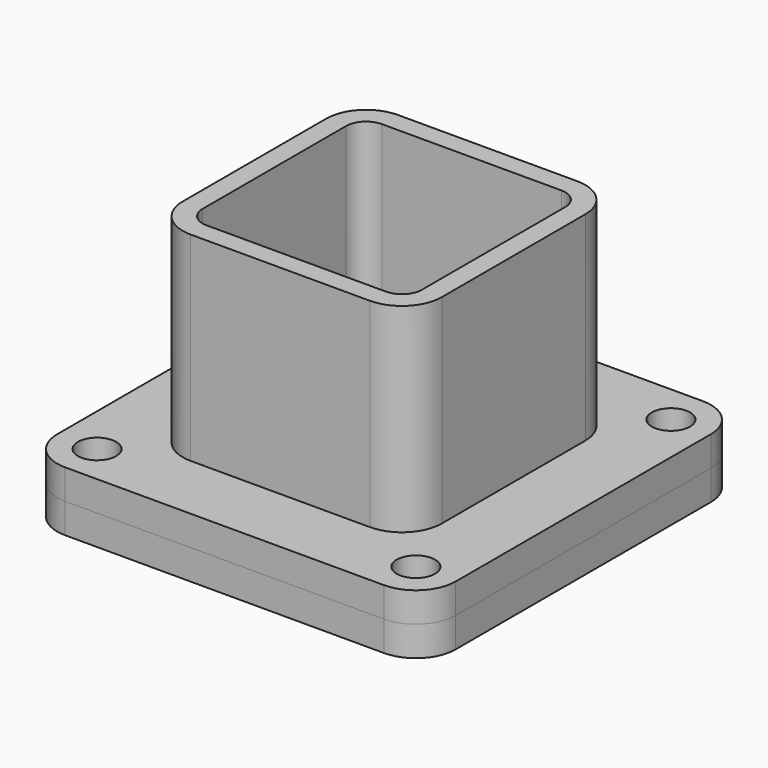
from build123d import *

# Parameters (mm, degrees)
F0_W           = 200
F0_H           = 200
F1_DEPTH       = 15
F2_R           = 20
F4_D           = 13.2
F6_DEPTH       = 15
F8_D           = 13.2
F8_CBORE_D     = 19.25
F8_CBORE_DEPTH = 12
F10_DEPTH      = 100


with BuildPart() as f1:
    # F0 (on Top) → F1 (new body)
    with BuildSketch(Plane.XY):
        Rectangle(F0_W, F0_H)
    extrude(amount=F1_DEPTH)

    # F2
    f2_edges = [f1.edges().sort_by_distance(p)[0] for p in [
        (100, -100, 7.5),
        (100, 100, 7.5),
        (-100, -100, 7.5),
        (-100, 100, 7.5),
    ]]
    fillet(f2_edges, radius=F2_R)

    # F4 (through all)
    with Locations(Plane.XY.offset(15)):
        with Locations((80, 80), (-80, 80), (-80, -80), (80, -80)):
            Hole(F4_D / 2)


with BuildPart() as f6:
    # F5 (on face) → F6 (new body)
    with BuildSketch(Plane.XY.offset(15)):
        with BuildLine():
            Line((-100, 80), (-100, -80))
            ThreePointArc((-100, -80), (-94.142136, -94.142136), (-80, -100))
            Line((-80, -100), (80, -100))
            ThreePointArc((80, -100), (94.142136, -94.142136), (100, -80))
            Line((100, -80), (100, 80))
            ThreePointArc((100, 80), (94.142136, 94.142136), (80, 100))
            Line((80, 100), (-80, 100))
            ThreePointArc((-80, 100), (-94.142136, 94.142136), (-100, 80))
        make_face()
    extrude(amount=F6_DEPTH)

    # F8 (through all)
    with Locations(Plane.XY.offset(30)):
        with Locations((-80, -80), (-80, 80), (80, 80), (80, -80)):
            CounterBoreHole(F8_D / 2, F8_CBORE_D / 2, F8_CBORE_DEPTH)


with BuildPart() as f10:
    # F9 (on face) → F10 (new body)
    with BuildSketch(Plane.XY.offset(30)):
        with BuildLine():
            Line((-45, -65), (45, -65))
            ThreePointArc((45, -65), (59.142136, -59.142136), (65, -45))
            Line((65, -45), (65, 45))
            ThreePointArc((65, 45), (59.142136, 59.142136), (45, 65))
            Line((45, 65), (-45, 65))
            ThreePointArc((-45, 65), (-59.142136, 59.142136), (-65, 45))
            Line((-65, 45), (-65, -45))
            ThreePointArc((-65, -45), (-59.142136, -59.142136), (-45, -65))
        make_face()
        with BuildLine():
            Line((-45, 55), (45, 55))
            ThreePointArc((45, 55), (52.071068, 52.071068), (55, 45))
            Line((55, 45), (55, -45))
            ThreePointArc((55, -45), (52.071068, -52.071068), (45, -55))
            Line((45, -55), (-45, -55))
            ThreePointArc((-45, -55), (-52.071068, -52.071068), (-55, -45))
            Line((-55, -45), (-55, 45))
            ThreePointArc((-55, 45), (-52.071068, 52.071068), (-45, 55))
        make_face(mode=Mode.SUBTRACT)
    extrude(amount=F10_DEPTH)


solid = Compound([f1.part, f6.part, f10.part])
